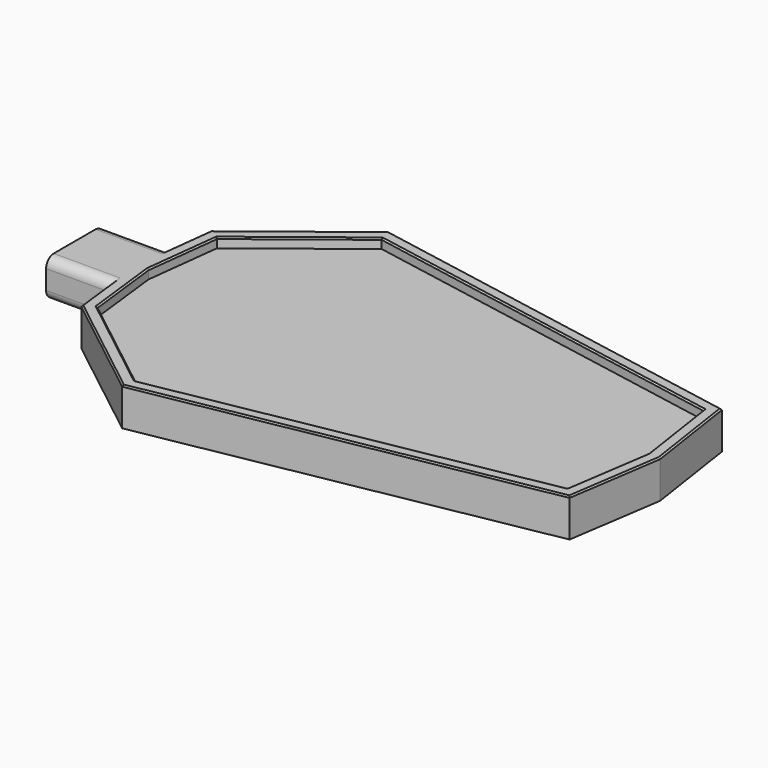
from build123d import *

# Parameters (mm, degrees)
F1_DEPTH = 4
F2_DEPTH = 2
F5_W     = 15
F5_H     = 8
F6_DEPTH = 15
F7_R     = 2
F8_SIZE  = 0.3


with BuildPart() as f1:
    # F0 (on Top) → F1 (new body, symmetric)
    with BuildSketch(Plane.XY):
        Polygon((-44.8648623007, 17), (-46.8648623007, 0), (-44.8648623007, -17), (-21.8648623007, -35), (60.1351376993, -20), (63.1351376993, 0), (60.1351376993, 20), (-21.8648623007, 35), align=None)
        Polygon((-42.5037055669, -15.6732787773), (-44.3476207171, 0), (-42.5037055669, 15.6732787773), (-21.2091646129, 32.3385716978), (57.9278251858, 17.8622930761), (60.6071691472, 0), (57.9278251858, -17.8622930761), (-21.2091646129, -32.3385716978), align=None, mode=Mode.SUBTRACT)
    extrude(amount=F1_DEPTH, both=True)

    # F5 (on plane+point) → F6 (join)
    with BuildSketch(Plane.YZ.offset(-44.8648623007)):
        Rectangle(F5_W, F5_H)
    extrude(amount=-F6_DEPTH)

    # F7
    f7_edges = [f1.edges().sort_by_distance(p)[0] for p in [
        (-52.923686, -7.5, -4),
        (-52.923686, -7.5, 4),
        (-52.923686, 7.5, -4),
        (-52.923686, 7.5, 4),
    ]]
    fillet(f7_edges, radius=F7_R)

    # F8
    f8_edges = [f1.edges().sort_by_distance(p)[0] for p in [
        (-33.364862, -26, 4),
        (19.135138, -27.5, 4),
        (-45.423686, -12.25, 4),
        (-45.423686, 12.25, 4),
        (-33.364862, 26, 4),
        (19.135138, 27.5, 4),
        (61.635138, 10, 4),
        (61.635138, -10, 4),
        (-31.856435, -24.005925, 4),
        (-43.425663, -7.836639, 4),
        (-43.425663, 7.836639, 4),
        (-31.856435, 24.005925, 4),
        (18.35933, 25.100432, 4),
        (18.35933, -25.100432, 4),
        (59.267497, -8.931147, 4),
        (59.267497, 8.931147, 4),
    ]]
    chamfer(f8_edges, length=F8_SIZE)


with BuildPart() as f2:
    # F0 (on Top) → F2 (new body)
    with BuildSketch(Plane.XY):
        Polygon((-42.5037055669, 15.6732787773), (-44.3476207171, 0), (-42.5037055669, -15.6732787773), (-21.2091646129, -32.3385716978), (57.9278251858, -17.8622930761), (60.6071691472, 0), (57.9278251858, 17.8622930761), (-21.2091646129, 32.3385716978), align=None)
    extrude(amount=F2_DEPTH)


solid = Compound([f1.part, f2.part])
